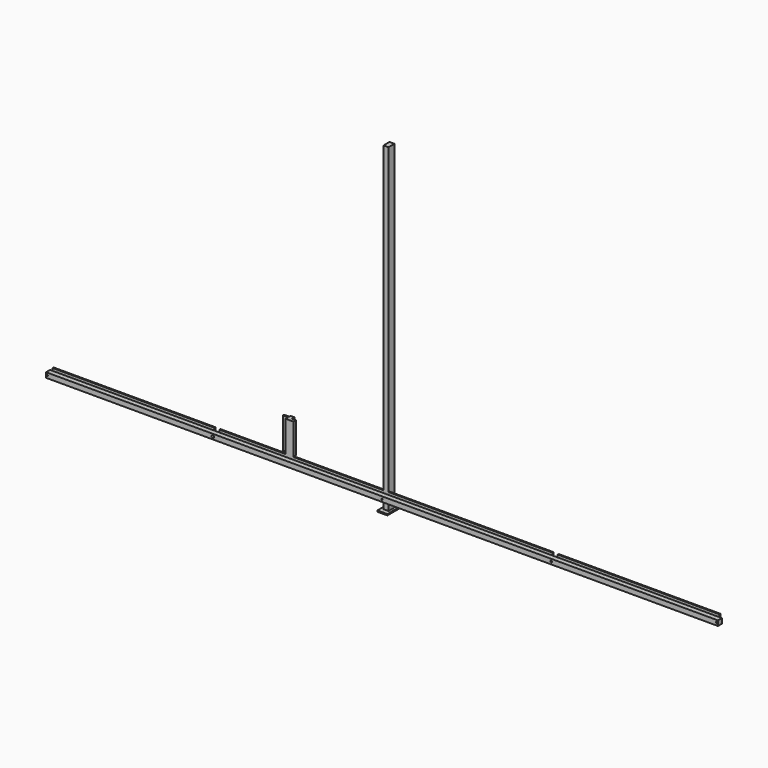
from build123d import *

# Parameters (mm, degrees)
F1_DEPTH  = 4
F2_W      = 130
F2_H      = 1
F2_W_2    = 132
F3_DEPTH  = 2
F4_R      = 0.5
F4_R_2    = 0.9864532669
F4_R_3    = 0.58106253
F4_R_4    = 0.6541784485
F4_R_5    = 0.6351490428
F5_DEPTH  = 6.3
F6_W      = 4
F6_H      = 6
F7_DEPTH  = 250
F8_DEPTH  = 7.4
F9_W      = 8.0595696345
F9_H      = 13.0560852122
F9_W_2    = 4
F9_H_2    = 6
F10_DEPTH = 1
F11_W     = 3.1334906816
F11_H     = 1.5953846052
F11_W_2   = 4.3241381645
F11_H_2   = 1.1064866558
F12_DEPTH = 25


with BuildPart() as f1:
    # F0 (on Top) → F1 (new body)
    with BuildSketch(Plane.XY):
        Polygon((-268, 0), (-270, 0), (-270, -4), (270, -4), (270, 0), (268, 0), (268, 1), (138, 1), (138, 0), (134, 0), (134, 1), (2, 1), (2, 0), (-2, 0), (-2, 1), (-134, 1), (-134, 0), (-138, 0), (-138, 1), (-268, 1), align=None)
    extrude(amount=F1_DEPTH)

    # F2 (on face) → F3 (join)
    with BuildSketch(Plane.XY.offset(4)):
        with Locations((-203, 0.5)):
            Rectangle(F2_W, F2_H)
        with Locations((-68, 0.5)):
            Rectangle(F2_W_2, F2_H)
        with Locations((68, 0.5)):
            Rectangle(F2_W_2, F2_H)
        with Locations((203, 0.5)):
            Rectangle(F2_W, F2_H)
    extrude(amount=F3_DEPTH)

    # F4 (on face) → F5 (cut)
    with BuildSketch(Plane.XZ.offset(4)):
        with Locations((-269, 2.1041841583)):
            Circle(F4_R)
        with Locations((-136, 2)):
            Circle(F4_R_2)
        with Locations((0, 2)):
            Circle(F4_R_3)
        with Locations((269, 2.1041841583)):
            Circle(F4_R_4)
        with Locations((136, 2)):
            Circle(F4_R_5)
    extrude(amount=-F5_DEPTH, mode=Mode.SUBTRACT)

    # F11 (on face) → F12 (join)
    with BuildSketch(Plane.XY.offset(6)):
        Polygon((-74.3784606457, 0), (-74.3784606457, 2.5953846052), (-77.5119513273, 2.5953846052), (-77.5119513273, 1), (-80.645442009, 1), (-80.645442009, 0), align=None)
        with Locations((-79.0786966681, 1.7976923026)):
            Rectangle(F11_W, F11_H)
        Polygon((-80.645442009, 2.5953846052), (-77.5119513273, 2.5953846052), (-77.5119513273, 5.0517162308), (-80.645442009, 5.0517162308), (-80.645442009, 3.701871261), align=None)
        with Locations((-82.8075110912, 3.1486279331)):
            Rectangle(F11_W_2, F11_H_2)
    extrude(amount=F12_DEPTH)


with BuildPart() as f7:
    # F6 (on Top) → F7 (new body)
    with BuildSketch(Plane.XY):
        with Locations((0, 3)):
            Rectangle(F6_W, F6_H)
    extrude(amount=F7_DEPTH)


with BuildPart() as f8:
    # F6 (on Top) → F8 (new body)
    with BuildSketch(Plane.XY):
        with Locations((0, 3)):
            Rectangle(F6_W, F6_H)
    extrude(amount=-F8_DEPTH)


with BuildPart() as f10:
    # F9 (on face) → F10 (new body)
    with BuildSketch(Plane(origin=(0, 0, -7.4), x_dir=(1, 0, 0), z_dir=(0, 0, -1))):
        with Locations((0, -2.8808616335)):
            Rectangle(F9_W, F9_H)
        with Locations((0, -3)):
            Rectangle(F9_W_2, F9_H_2, mode=Mode.SUBTRACT)
        with Locations((0, -3)):
            Rectangle(F9_W_2, F9_H_2)
    extrude(amount=F10_DEPTH)


solid = Compound([f1.part, f7.part, f8.part, f10.part])
